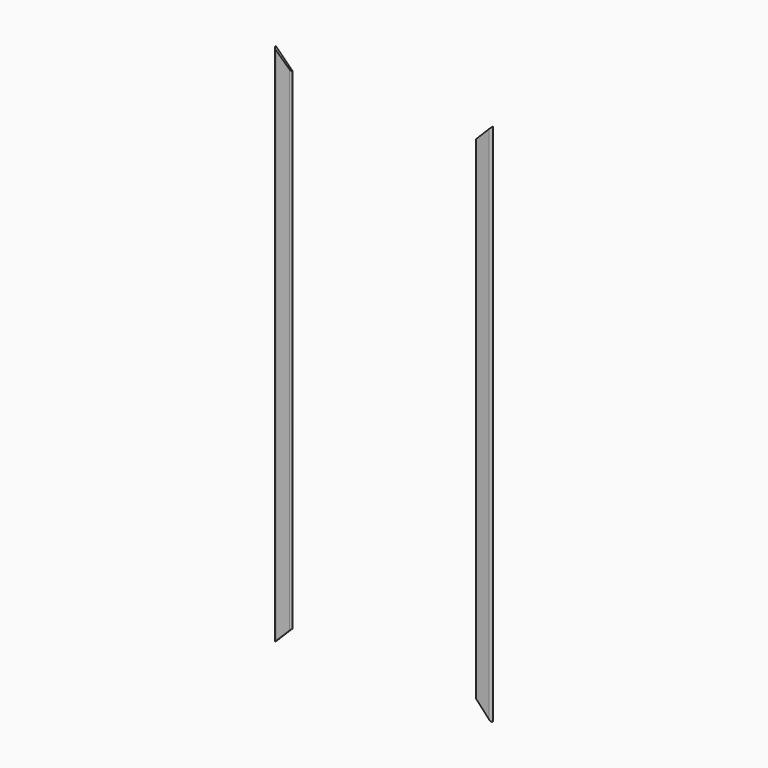
from build123d import *

# Parameters (mm, degrees)
EXTRUDE039436_DEPTH = 500
EXTRUDE039434_DEPTH = 500


with BuildPart() as extrude039436_internal_inferior:
    # Sketch225 (on Sketch) → Extrude039436 (new body, symmetric)
    with BuildSketch(Plane.XZ):
        Polygon((-200, 200), (200, 200), (600, -200), (-600, -200), align=None)
    extrude(amount=EXTRUDE039436_DEPTH, both=True)


with BuildPart() as compound051:
    # Sketch223 (on Sketch) → Extrude039434 (new body, symmetric)
    with BuildSketch(Plane.XZ):
        Polygon((-600, 2300), (600, 2300), (200, 1900), (-200, 1900), align=None)
    extrude(amount=EXTRUDE039434_DEPTH, both=True)

    # Compound051: union Extrude039436_internal_inferior_
    add(extrude039436_internal_inferior.part)


with BuildPart() as trim_window_external_vertical:
    # Sweep011: sweep along a path in Sketch194
    with BuildLine(Plane.XZ.offset(140)) as sweep011_path:
        Line((-390, 2090), (-390, 0))
        Line((-390, 0), (390, 0))
        Line((390, 0), (390, 2090))
        Line((390, 2090), (-390, 2090))
    # Clone2D027 (on Sketch) → Sweep011 (sweep)
    with BuildSketch(Plane(origin=(0, -140, 0), x_dir=(0, 0, 1), z_dir=(1, 0, 0))):
        with BuildLine():
            Line((-61.571224, 10), (-5.678418, 7))
            ThreePointArc((-5.678418, 7), (-1.645147, 5.136003), (0, 1.008624))
            Line((0, 1.008624), (0, 0))
            Line((0, 0), (-70, 0))
            Line((-70, 0), (-70, 2.011499))
            ThreePointArc((-70, 2.011499), (-67.503171, 7.81797), (-61.571224, 10))
        make_face()
    sweep(path=sweep011_path.line, is_frenet=True, transition=Transition.RIGHT)

    # Cut076: cut Compound051_
    add(compound051.part, mode=Mode.SUBTRACT)


solid = trim_window_external_vertical.part
